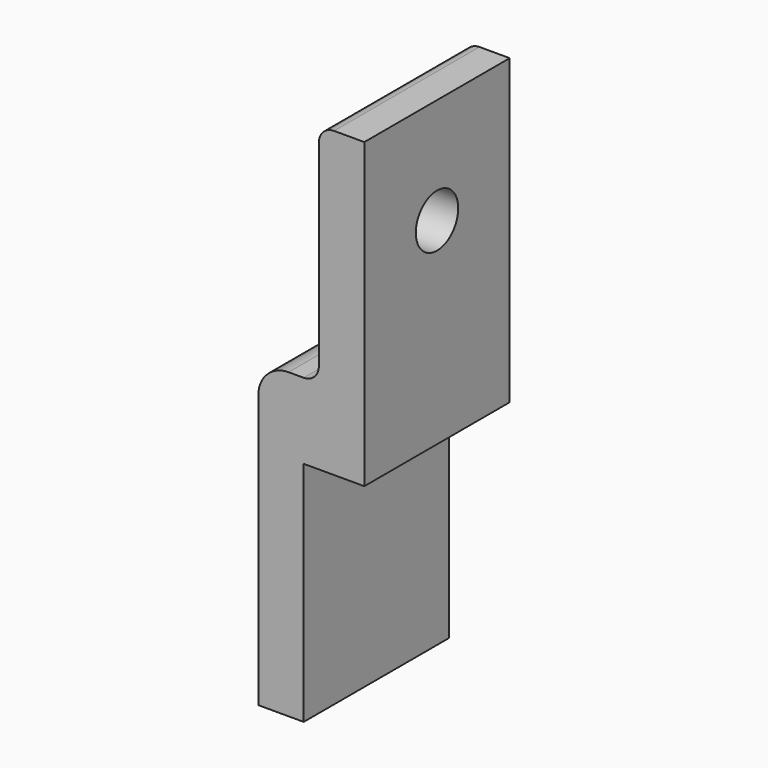
from build123d import *

# Parameters (mm, degrees)
F1_DEPTH = 12
F2_R     = 1.75
F3_DEPTH = 7.001


with BuildPart() as f1:
    # F0 (on Front) → F1 (new body)
    with BuildSketch(Plane.XZ):
        with BuildLine():
            Line((-28.697127, 0), (-25.697127, 0))
            Line((-25.697127, 0), (-25.697127, 15))
            Line((-25.697127, 15), (-21.697127, 15))
            Line((-21.697127, 15), (-21.697127, 35))
            Line((-21.697127, 35), (-23.697127, 35))
            ThreePointArc((-23.697127, 35), (-24.404233, 34.707107), (-24.697127, 34))
            Line((-24.697127, 34), (-24.697127, 21))
            ThreePointArc((-24.697127, 21), (-24.99002, 20.292893), (-25.697127, 20))
            Line((-25.697127, 20), (-26.697127, 20))
            ThreePointArc((-26.697127, 20), (-28.11134, 19.414214), (-28.697127, 18))
            Line((-28.697127, 18), (-28.697127, 0))
        make_face()
    extrude(amount=F1_DEPTH)

    # F2 (on face) → F3 (cut, through all)
    with BuildSketch(Plane.YZ.offset(-21.697127)):
        with Locations((-6, 28)):
            Circle(F2_R)
    extrude(amount=-F3_DEPTH, mode=Mode.SUBTRACT)


solid = f1.part
